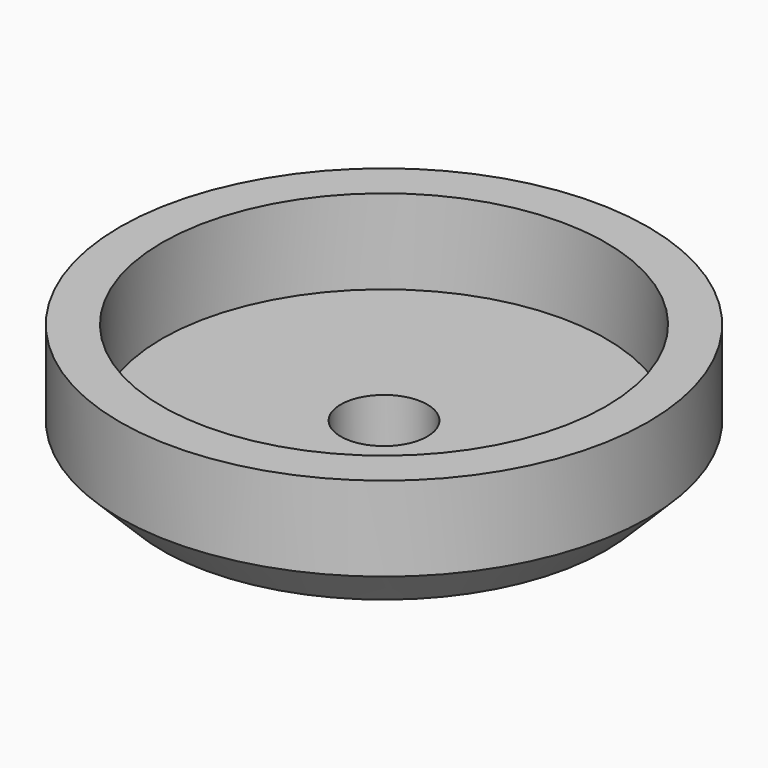
from build123d import *

# Parameters (mm, degrees)
F0_R      = 12.5
F1_DEPTH  = 6
F2_T      = -2
F3_SIZE   = 2
F4_W      = 6
F4_H      = 12
F5_DEPTH  = 2
F6_SIZE   = 2
F7_R      = 2.05
F8_DEPTH  = 25
F9_R      = 1.5
F10_DEPTH = 25


with BuildPart() as f1:
    # F0 (on Top) → F1 (new body)
    with BuildSketch(Plane.XY):
        Circle(F0_R)
    extrude(amount=F1_DEPTH)

    # F2
    f2_openings = [f1.faces().sort_by_distance(p)[0] for p in [
        (0, 0, 6),
    ]]
    offset(amount=F2_T, openings=f2_openings)

    # F3
    f3_edges = [f1.edges().sort_by_distance(p)[0] for p in [
        (-12.5, 0, 0),
    ]]
    chamfer(f3_edges, length=F3_SIZE)

    # F4 (on face) → F5 (join)
    with BuildSketch(Plane(origin=(0, 0, 0), x_dir=(1, 0, 0), z_dir=(0, 0, -1))):
        Rectangle(F4_W, F4_H)
    extrude(amount=F5_DEPTH)

    # F6
    f6_edges = [f1.edges().sort_by_distance(p)[0] for p in [
        (3, -6, -1),
        (-3, -6, -1),
        (3, 6, -1),
        (-3, 6, -1),
    ]]
    chamfer(f6_edges, length=F6_SIZE)

    # F7 (on face) → F8 (cut)
    with BuildSketch(Plane(origin=(0, 0, -2), x_dir=(1, 0, 0), z_dir=(0, 0, -1))):
        Circle(F7_R)
    extrude(amount=-F8_DEPTH, mode=Mode.SUBTRACT)

    # F9 (on face) → F10 (cut)
    with BuildSketch(Plane(origin=(0, 0, 0), x_dir=(1, 0, 0), z_dir=(0, 0, -1))):
        with Locations((8.523585, 0)):
            Circle(F9_R)
    extrude(amount=-F10_DEPTH, mode=Mode.SUBTRACT)


solid = f1.part
